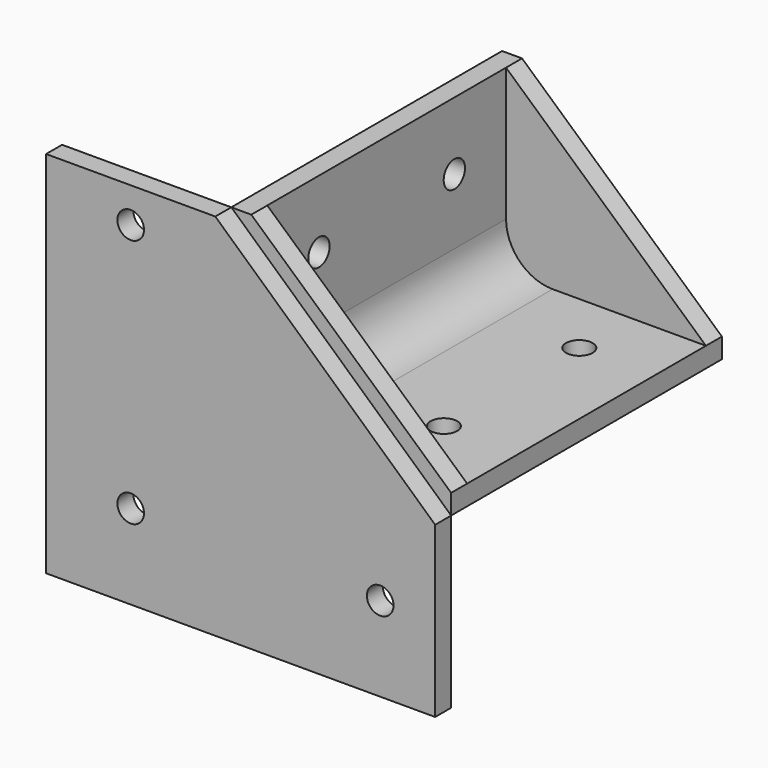
from build123d import *

# Parameters (mm, degrees)
F0_W      = 30
F0_H      = 3
F1_DEPTH  = 50.8
F2_R      = 2
F3_DEPTH  = 3.001
F4_R      = 2
F5_DEPTH  = 3.001
F7_DEPTH  = 3
F9_DEPTH  = 3
F10_R     = 7
F11_W     = 25.4
F11_H     = 30
F11_R     = 2
F11_W_2   = 33
F11_H_2   = 25.4
F12_DEPTH = 3


with BuildPart() as f1:
    # F0 (on Front) → F1 (new body)
    with BuildSketch(Plane.XZ):
        with Locations((15, 1.5)):
            Rectangle(F0_W, F0_H)
        Polygon((-3, 0), (0, 0), (0, 3), (0, 30), (-3, 30), align=None)
    extrude(amount=F1_DEPTH)

    # F2 (on face) → F3 (cut, through all)
    with BuildSketch(Plane.XY.offset(3)):
        with Locations((18.75, -12.7)):
            Circle(F2_R)
        with Locations((18.75, -38.1)):
            Circle(F2_R)
    extrude(amount=-F3_DEPTH, mode=Mode.SUBTRACT)

    # F4 (on face) → F5 (cut, through all)
    with BuildSketch(Plane.YZ):
        with Locations((-38.1, 19.875)):
            Circle(F4_R)
        with Locations((-12.7, 19.875)):
            Circle(F4_R)
    extrude(amount=-F5_DEPTH, mode=Mode.SUBTRACT)

    # F6 (on face) → F7 (join)
    with BuildSketch(Plane.XZ.offset(50.8)):
        Polygon((30, 3), (0, 30), (0, 3), align=None)
    extrude(amount=-F7_DEPTH)

    # F8 (on face) → F9 (join)
    with BuildSketch(Plane(origin=(0, 0, 0), x_dir=(-1, 0, 0), z_dir=(0, 1, 0))):
        Polygon((0, 30), (-30, 3), (0, 3), align=None)
    extrude(amount=-F9_DEPTH)

    # F10
    f10_edges = [f1.edges().sort_by_distance(p)[0] for p in [
        (0, -25.4, 3),
    ]]
    fillet(f10_edges, radius=F10_R)


with BuildPart() as f12:
    # F11 (on face) → F12 (new body)
    with BuildSketch(Plane.XZ.offset(50.8)):
        with Locations((-15.7, 15)):
            Rectangle(F11_W, F11_H)
        with Locations((-15.7, 24.75)):
            Circle(F11_R, mode=Mode.SUBTRACT)
        Polygon((30, 0), (-3, 30), (-3, 0), align=None)
        with Locations((13.5, -12.7)):
            Rectangle(F11_W_2, F11_H_2)
        with Locations((21.75, -12.7)):
            Circle(F11_R, mode=Mode.SUBTRACT)
        with Locations((-15.7, -12.7)):
            Rectangle(F11_W, F11_H_2)
        with Locations((-15.7, -12.7)):
            Circle(F11_R, mode=Mode.SUBTRACT)
    extrude(amount=F12_DEPTH)


solid = Compound([f1.part, f12.part])
